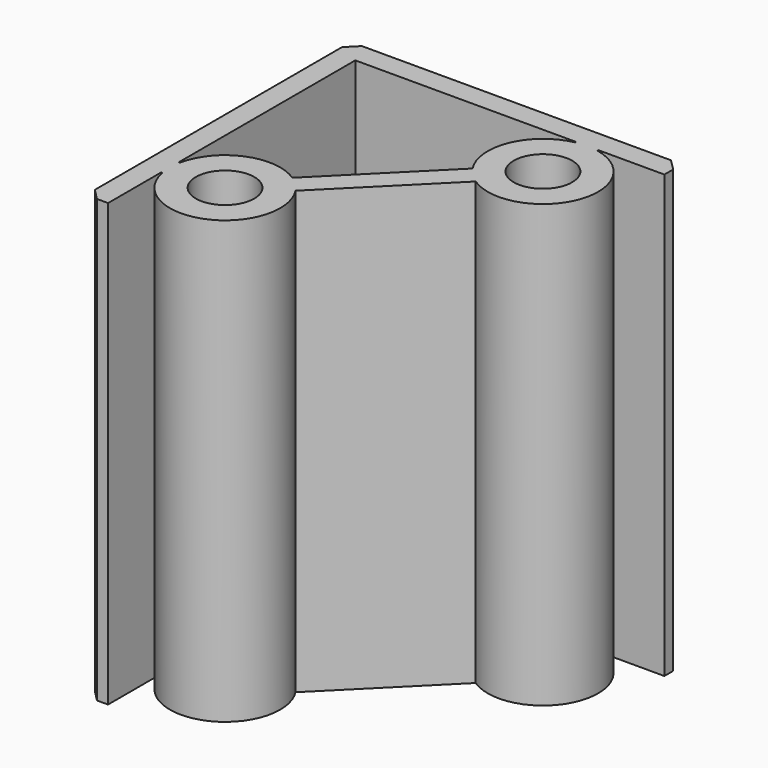
from build123d import *

# Parameters (mm, degrees)
CYLINDER062_R          = 2.65
CYLINDER062_DEPTH      = 40
CYLINDER061_R          = 2.65
CYLINDER061_DEPTH      = 40
BOX052_W               = 2
BOX052_H               = 2
BOX052_DEPTH           = 40
BOX051_W               = 2
BOX051_H               = 2
BOX051_DEPTH           = 40
BOX050_W               = 14
BOX050_H               = 2
BOX050_DEPTH           = 40
BOX050_PLACEMENT_ANGLE = 45
CYLINDER059_R          = 5
CYLINDER059_DEPTH      = 40
CYLINDER060_R          = 5
CYLINDER060_DEPTH      = 40
BOX049_W               = 30
BOX049_H               = 2
BOX049_DEPTH           = 40
BOX048_W               = 2
BOX048_H               = 30
BOX048_DEPTH           = 40
CHAMFER006044_SIZE     = 1


with BuildPart() as cylinder062:
    # Cylinder062 → Cylinder062 (new body)
    with BuildSketch(Plane(origin=(8, 8, 0), x_dir=(1, 0, 0), z_dir=(0, 0, 1))):
        Circle(CYLINDER062_R)
    extrude(amount=CYLINDER062_DEPTH)


with BuildPart() as fusion020006007003002009018004004020009:
    # Cylinder061 → Cylinder061 (new body)
    with BuildSketch(Plane(origin=(-8, -8, 0), x_dir=(1, 0, 0), z_dir=(0, 0, 1))):
        Circle(CYLINDER061_R)
    extrude(amount=CYLINDER061_DEPTH)

    # Fusion020006007003002009018004004020009: union Cylinder062
    add(cylinder062.part)


with BuildPart() as cube052:
    # Box052 → Box052 (new body)
    with BuildSketch(Plane(origin=(7, 12, 0), x_dir=(1, 0, 0), z_dir=(0, 0, 1))):
        with Locations((1, 1)):
            Rectangle(BOX052_W, BOX052_H)
    extrude(amount=BOX052_DEPTH)


with BuildPart() as cube051:
    # Box051 → Box051 (new body)
    with BuildSketch(Plane(origin=(-14, -9, 0), x_dir=(1, 0, 0), z_dir=(0, 0, 1))):
        with Locations((1, 1)):
            Rectangle(BOX051_W, BOX051_H)
    extrude(amount=BOX051_DEPTH)


with BuildPart() as cube050:
    # Box050 → Box050 (new body)
    with BuildSketch(Plane.XY):
        with Locations((7, 1)):
            Rectangle(BOX050_W, BOX050_H)
    extrude(amount=BOX050_DEPTH)


with BuildPart() as cube050_1:
    # Box050 placement: moved
    add(cube050.part.moved(Location((-4.242641, -5.656854, 0))).rotate(Axis((-4.242641, -5.656854, 0), (0, 0, 1)), BOX050_PLACEMENT_ANGLE))


with BuildPart() as cylinder059:
    # Cylinder059 → Cylinder059 (new body)
    with BuildSketch(Plane(origin=(8, 8, 0), x_dir=(1, 0, 0), z_dir=(0, 0, 1))):
        Circle(CYLINDER059_R)
    extrude(amount=CYLINDER059_DEPTH)


with BuildPart() as cylinder060:
    # Cylinder060 → Cylinder060 (new body)
    with BuildSketch(Plane(origin=(-8, -8, 0), x_dir=(1, 0, 0), z_dir=(0, 0, 1))):
        Circle(CYLINDER060_R)
    extrude(amount=CYLINDER060_DEPTH)


with BuildPart() as cube049:
    # Box049 → Box049 (new body)
    with BuildSketch(Plane(origin=(-15, 13, 0), x_dir=(1, 0, 0), z_dir=(0, 0, 1))):
        with Locations((15, 1)):
            Rectangle(BOX049_W, BOX049_H)
    extrude(amount=BOX049_DEPTH)


with BuildPart() as corner_40mm_wall:
    # Box048 → Box048 (new body)
    with BuildSketch(Plane(origin=(-15, -15, 0), x_dir=(1, 0, 0), z_dir=(0, 0, 1))):
        with Locations((1, 15)):
            Rectangle(BOX048_W, BOX048_H)
    extrude(amount=BOX048_DEPTH)

    # Fusion020006007003002009018004004020007: union Cube049
    add(cube049.part)

    # Chamfer006044
    chamfer006044_edges = [corner_40mm_wall.edges().sort_by_distance(p)[0] for p in [
        (-15, -15, 20),
        (-15, 15, 20),
        (15, 15, 20),
    ]]
    chamfer(chamfer006044_edges, length=CHAMFER006044_SIZE)

    # Fusion020006007003002009018004004020008: union Cube052, Cube051, Cube050, Cylinder059, Cylinder060
    add(cube052.part)
    add(cube051.part)
    add(cube050_1.part)
    add(cylinder059.part)
    add(cylinder060.part)

    # Cut019003010003: cut Fusion020006007003002009018004004020009
    add(fusion020006007003002009018004004020009.part, mode=Mode.SUBTRACT)


solid = corner_40mm_wall.part
